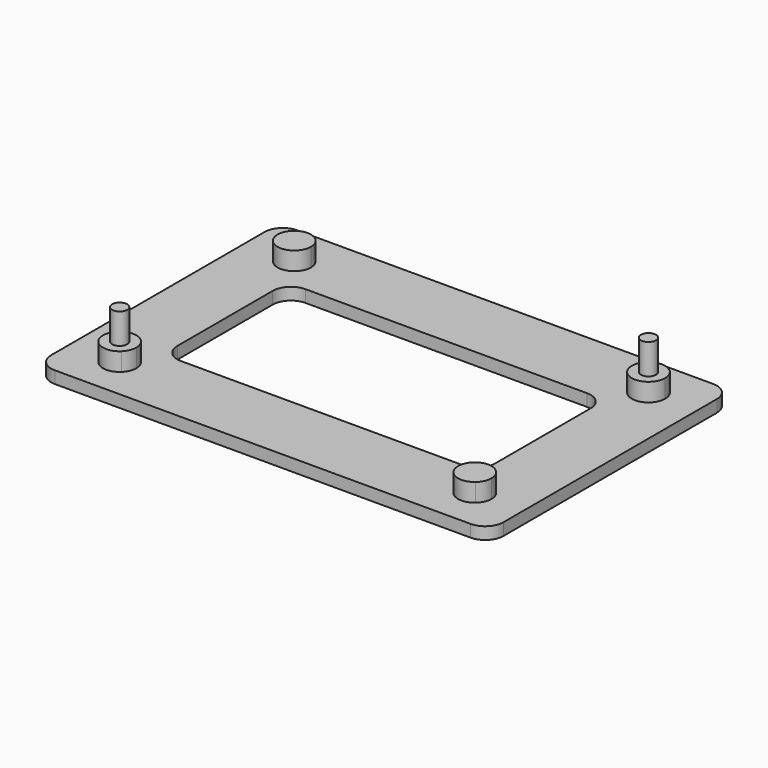
from build123d import *

# Parameters (mm, degrees)
F0_W     = 74.6
F0_H     = 50
F0_W_2   = 52.4393096566
F0_H_2   = 25.6734117866
F0_R     = 1.25
F1_DEPTH = 2
F2_DEPTH = 5
F3_DEPTH = 10
F4_R     = 3
F5_R     = 3


with BuildPart() as f1:
    # F0 (on Top) → F1 (new body)
    with BuildSketch(Plane.XY):
        Rectangle(F0_W, F0_H)
        with BuildLine():
            Line((-32.3, -20), (-32.3, 20))
            Line((-32.3, 20), (-31.0874586088, 20))
            ThreePointArc((-31.0874586088, 20), (-29.2, 20.75), (-27.3125413912, 20))
            Line((-27.3125413912, 20), (27.5244719095, 20))
            ThreePointArc((27.5244719095, 20), (29.3, 20.65), (31.0755280905, 20))
            Line((31.0755280905, 20), (32.3, 20))
            Line((32.3, 20), (32.3, -20))
            Line((32.3, -20), (31.0755280905, -20))
            ThreePointArc((31.0755280905, -20), (29.3, -20.65), (27.5244719095, -20))
            Line((27.5244719095, -20), (-27.3125413912, -20))
            ThreePointArc((-27.3125413912, -20), (-29.2, -20.75), (-31.0874586088, -20))
            Line((-31.0874586088, -20), (-32.3, -20))
        make_face(mode=Mode.SUBTRACT)
        Rectangle(F0_W, F0_H)
        with BuildLine():
            Line((-32.3, -20), (-32.3, 20))
            Line((-32.3, 20), (-31.0874586088, 20))
            ThreePointArc((-31.0874586088, 20), (-29.2, 20.75), (-27.3125413912, 20))
            Line((-27.3125413912, 20), (27.5244719095, 20))
            ThreePointArc((27.5244719095, 20), (29.3, 20.65), (31.0755280905, 20))
            Line((31.0755280905, 20), (32.3, 20))
            Line((32.3, 20), (32.3, -20))
            Line((32.3, -20), (31.0755280905, -20))
            ThreePointArc((31.0755280905, -20), (29.3, -20.65), (27.5244719095, -20))
            Line((27.5244719095, -20), (-27.3125413912, -20))
            ThreePointArc((-27.3125413912, -20), (-29.2, -20.75), (-31.0874586088, -20))
            Line((-31.0874586088, -20), (-32.3, -20))
        make_face(mode=Mode.SUBTRACT)
        with BuildLine():
            Line((-31.0874586088, 20), (-32.3, 20))
            Line((-32.3, 20), (-32.3, -20))
            Line((-32.3, -20), (-31.0874586088, -20))
            ThreePointArc((-31.0874586088, -20), (-30.289033706, -15.4748256323), (-26.45, -18))
            ThreePointArc((-26.45, -18), (-26.6748256323, -19.089033706), (-27.3125413912, -20))
            Line((-27.3125413912, -20), (27.5244719095, -20))
            ThreePointArc((27.5244719095, -20), (28.1424599896, -15.4054857939), (32.05, -17.9))
            ThreePointArc((32.05, -17.9), (31.7945142061, -19.0575400104), (31.0755280905, -20))
            Line((31.0755280905, -20), (32.3, -20))
            Line((32.3, -20), (32.3, 20))
            Line((32.3, 20), (31.0755280905, 20))
            ThreePointArc((31.0755280905, 20), (31.7945142061, 19.0575400104), (32.05, 17.9))
            ThreePointArc((32.05, 17.9), (28.1424599896, 15.4054857939), (27.5244719095, 20))
            Line((27.5244719095, 20), (-27.3125413912, 20))
            ThreePointArc((-27.3125413912, 20), (-26.6748256323, 19.089033706), (-26.45, 18))
            ThreePointArc((-26.45, 18), (-30.289033706, 15.4748256323), (-31.0874586088, 20))
        make_face()
        Rectangle(F0_W_2, F0_H_2, mode=Mode.SUBTRACT)
        with BuildLine():
            Line((31.0755280905, 20), (27.5244719095, 20))
            ThreePointArc((27.5244719095, 20), (28.1424599896, 15.4054857939), (32.05, 17.9))
            ThreePointArc((32.05, 17.9), (31.7945142061, 19.0575400104), (31.0755280905, 20))
        make_face()
        with Locations((29.3, 17.9)):
            Circle(F0_R, mode=Mode.SUBTRACT)
        with BuildLine():
            ThreePointArc((-26.45, -18), (-30.289033706, -15.4748256323), (-31.0874586088, -20))
            Line((-31.0874586088, -20), (-27.3125413912, -20))
            ThreePointArc((-27.3125413912, -20), (-26.6748256323, -19.089033706), (-26.45, -18))
        make_face()
        with Locations((-29.2, -18)):
            Circle(F0_R, mode=Mode.SUBTRACT)
        with Locations((-29.2, -18)):
            Circle(F0_R)
        with Locations((29.3, 17.9)):
            Circle(F0_R)
        with BuildLine():
            Line((-27.3125413912, -20), (-31.0874586088, -20))
            ThreePointArc((-31.0874586088, -20), (-29.2, -20.75), (-27.3125413912, -20))
        make_face()
    extrude(amount=F1_DEPTH)

    # F0 (on Top) → F2 (join)
    with BuildSketch(Plane.XY):
        with BuildLine():
            ThreePointArc((31.0755280905, 20), (29.3, 20.65), (27.5244719095, 20))
            Line((27.5244719095, 20), (31.0755280905, 20))
        make_face()
        with BuildLine():
            Line((31.0755280905, 20), (27.5244719095, 20))
            ThreePointArc((27.5244719095, 20), (28.1424599896, 15.4054857939), (32.05, 17.9))
            ThreePointArc((32.05, 17.9), (31.7945142061, 19.0575400104), (31.0755280905, 20))
        make_face()
        with Locations((29.3, 17.9)):
            Circle(F0_R, mode=Mode.SUBTRACT)
        with Locations((29.3, 17.9)):
            Circle(F0_R)
        with BuildLine():
            ThreePointArc((-26.45, -18), (-30.289033706, -15.4748256323), (-31.0874586088, -20))
            Line((-31.0874586088, -20), (-27.3125413912, -20))
            ThreePointArc((-27.3125413912, -20), (-26.6748256323, -19.089033706), (-26.45, -18))
        make_face()
        with Locations((-29.2, -18)):
            Circle(F0_R, mode=Mode.SUBTRACT)
        with Locations((-29.2, -18)):
            Circle(F0_R)
        with BuildLine():
            Line((-27.3125413912, -20), (-31.0874586088, -20))
            ThreePointArc((-31.0874586088, -20), (-29.2, -20.75), (-27.3125413912, -20))
        make_face()
        with BuildLine():
            Line((-27.3125413912, 20), (-31.0874586088, 20))
            ThreePointArc((-31.0874586088, 20), (-30.289033706, 15.4748256323), (-26.45, 18))
            ThreePointArc((-26.45, 18), (-26.6748256323, 19.089033706), (-27.3125413912, 20))
        make_face()
        with BuildLine():
            ThreePointArc((-27.3125413912, 20), (-29.2, 20.75), (-31.0874586088, 20))
            Line((-31.0874586088, 20), (-27.3125413912, 20))
        make_face()
        with BuildLine():
            ThreePointArc((32.05, -17.9), (28.1424599896, -15.4054857939), (27.5244719095, -20))
            Line((27.5244719095, -20), (31.0755280905, -20))
            ThreePointArc((31.0755280905, -20), (31.7945142061, -19.0575400104), (32.05, -17.9))
        make_face()
        with BuildLine():
            Line((31.0755280905, -20), (27.5244719095, -20))
            ThreePointArc((27.5244719095, -20), (29.3, -20.65), (31.0755280905, -20))
        make_face()
    extrude(amount=F2_DEPTH)

    # F0 (on Top) → F3 (join)
    with BuildSketch(Plane.XY):
        with Locations((29.3, 17.9)):
            Circle(F0_R)
        with Locations((-29.2, -18)):
            Circle(F0_R)
    extrude(amount=F3_DEPTH)

    # F4
    f4_edges = [f1.edges().sort_by_distance(p)[0] for p in [
        (37.3, 25, 1),
        (37.3, -25, 1),
        (-37.3, -25, 1),
        (-37.3, 25, 1),
    ]]
    fillet(f4_edges, radius=F4_R)

    # F5
    f5_edges = [f1.edges().sort_by_distance(p)[0] for p in [
        (-26.219655, 12.836706, 1),
        (26.219655, 12.836706, 1),
        (26.219655, -12.836706, 1),
        (-26.219655, -12.836706, 1),
    ]]
    fillet(f5_edges, radius=F5_R)


solid = f1.part
